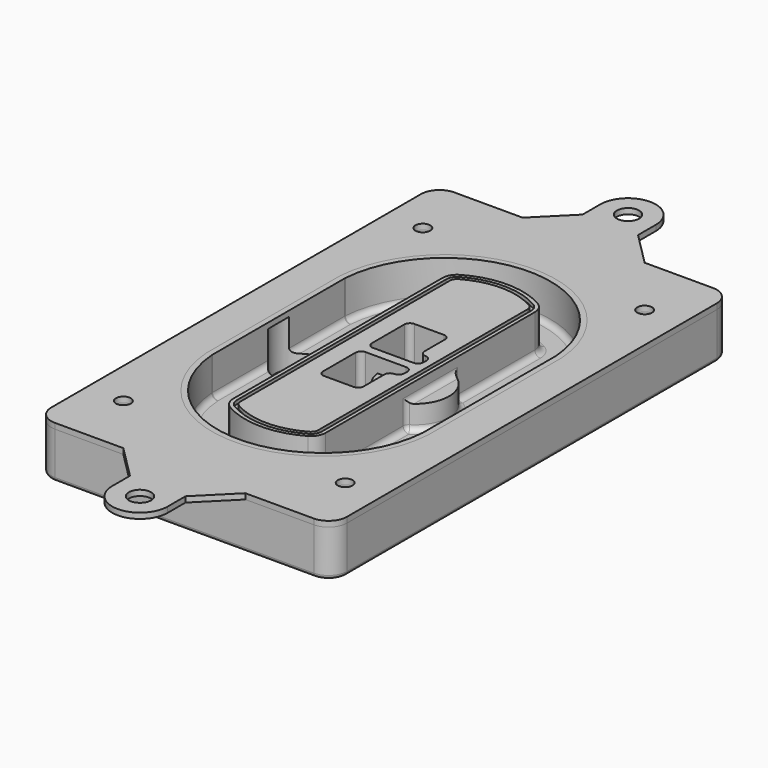
from build123d import *

# Parameters (mm, degrees)
F0_R      = 4
F1_DEPTH  = 25
F2_DEPTH  = 3
F3_DEPTH  = 18
F5_DEPTH  = 21
F6_DEPTH  = 2
F8_DEPTH  = 20
F9_DEPTH  = 16
F10_DEPTH = 25
F7_R      = 6
F7_R_2    = 4
F11_DEPTH = 6
F13_DEPTH = 9
F14_R     = 3
F15_R     = 2
F16_R     = 6
F16_R_2   = 4
F17_DEPTH = 3


with BuildPart() as f1:
    # F0 (on Top) → F1 (new body)
    with BuildSketch(Plane.XY):
        with BuildLine():
            ThreePointArc((-80, -125), (-77.0710678119, -132.0710678119), (-70, -135))
            Line((-70, -135), (70, -135))
            ThreePointArc((70, -135), (77.0710678119, -132.0710678119), (80, -125))
            Line((80, -125), (80, 125))
            ThreePointArc((80, 125), (77.0710678119, 132.0710678119), (70, 135))
            Line((70, 135), (-70, 135))
            ThreePointArc((-70, 135), (-77.0710678119, 132.0710678119), (-80, 125))
            Line((-80, 125), (-80, -125))
        make_face()
        with Locations((-60, -101.25)):
            Circle(F0_R, mode=Mode.SUBTRACT)
        with Locations((60, -101.25)):
            Circle(F0_R, mode=Mode.SUBTRACT)
        with Locations((-60, 101.25)):
            Circle(F0_R, mode=Mode.SUBTRACT)
        with BuildLine():
            ThreePointArc((-64, 44.6627429245), (-63.991269098, 45.1571001106), (-63.9650872818, 45.650840699))
            ThreePointArc((-63.9650872818, 45.650840699), (0, 105.25), (63.9650872818, 45.650840699))
            ThreePointArc((63.9650872818, 45.650840699), (63.991269098, 45.1571001106), (64, 44.6627429245))
            Line((64, 44.6627429245), (64, -44.6627429245))
            ThreePointArc((64, -44.6627429245), (63.991269098, -45.1571001106), (63.9650872818, -45.650840699))
            ThreePointArc((63.9650872818, -45.650840699), (0, -105.25), (-63.9650872818, -45.650840699))
            ThreePointArc((-63.9650872818, -45.650840699), (-63.991269098, -45.1571001106), (-64, -44.6627429245))
            Line((-64, -44.6627429245), (-64, 44.6627429245))
        make_face(mode=Mode.SUBTRACT)
        with Locations((60, 101.25)):
            Circle(F0_R, mode=Mode.SUBTRACT)
        with BuildLine():
            ThreePointArc((63.9650872818, 45.650840699), (0, 105.25), (-63.9650872818, 45.650840699))
            ThreePointArc((-63.9650872818, 45.650840699), (-63.991269098, 45.1571001106), (-64, 44.6627429245))
            Line((-64, 44.6627429245), (-64, -44.6627429245))
            ThreePointArc((-64, -44.6627429245), (-63.991269098, -45.1571001106), (-63.9650872818, -45.650840699))
            ThreePointArc((-63.9650872818, -45.650840699), (0, -105.25), (63.9650872818, -45.650840699))
            ThreePointArc((63.9650872818, -45.650840699), (63.991269098, -45.1571001106), (64, -44.6627429245))
            Line((64, -44.6627429245), (64, 44.6627429245))
            ThreePointArc((64, 44.6627429245), (63.991269098, 45.1571001106), (63.9650872818, 45.650840699))
        make_face()
        with BuildLine():
            Line((-60, -44.6627429245), (-60, 44.6627429245))
            ThreePointArc((-60, 44.6627429245), (-59.9937636414, 45.0158552003), (-59.9750623441, 45.3685270491))
            ThreePointArc((-59.9750623441, 45.3685270491), (0, 101.25), (59.9750623441, 45.3685270491))
            ThreePointArc((59.9750623441, 45.3685270491), (59.9937636414, 45.0158552003), (60, 44.6627429245))
            Line((60, 44.6627429245), (60, -44.6627429245))
            ThreePointArc((60, -44.6627429245), (59.9937636414, -45.0158552003), (59.9750623441, -45.3685270491))
            ThreePointArc((59.9750623441, -45.3685270491), (0, -101.25), (-59.9750623441, -45.3685270491))
            ThreePointArc((-59.9750623441, -45.3685270491), (-59.9937636414, -45.0158552003), (-60, -44.6627429245))
        make_face(mode=Mode.SUBTRACT)
        with BuildLine():
            ThreePointArc((-59.9750623441, 45.3685270491), (-59.9937636414, 45.0158552003), (-60, 44.6627429245))
            Line((-60, 44.6627429245), (-60, -44.6627429245))
            ThreePointArc((-60, -44.6627429245), (-59.9937636414, -45.0158552003), (-59.9750623441, -45.3685270491))
            ThreePointArc((-59.9750623441, -45.3685270491), (0, -101.25), (59.9750623441, -45.3685270491))
            ThreePointArc((59.9750623441, -45.3685270491), (59.9937636414, -45.0158552003), (60, -44.6627429245))
            Line((60, -44.6627429245), (60, 44.6627429245))
            ThreePointArc((60, 44.6627429245), (59.9937636414, 45.0158552003), (59.9750623441, 45.3685270491))
            ThreePointArc((59.9750623441, 45.3685270491), (0, 101.25), (-59.9750623441, 45.3685270491))
        make_face()
        with BuildLine():
            ThreePointArc((56.9825436409, 45.1567918117), (56.995634549, 44.9099215176), (57, 44.6627429245))
            Line((57, 44.6627429245), (57, -44.6627429245))
            ThreePointArc((57, -44.6627429245), (56.995634549, -44.9099215176), (56.9825436409, -45.1567918117))
            ThreePointArc((56.9825436409, -45.1567918117), (0, -98.25), (-56.9825436409, -45.1567918117))
            ThreePointArc((-56.9825436409, -45.1567918117), (-56.995634549, -44.9099215176), (-57, -44.6627429245))
            Line((-57, -44.6627429245), (-57, 44.6627429245))
            ThreePointArc((-57, 44.6627429245), (-56.995634549, 44.9099215176), (-56.9825436409, 45.1567918117))
            ThreePointArc((-56.9825436409, 45.1567918117), (0, 98.25), (56.9825436409, 45.1567918117))
        make_face(mode=Mode.SUBTRACT)
        with BuildLine():
            Line((57, -44.6627429245), (57, 44.6627429245))
            ThreePointArc((57, 44.6627429245), (56.995634549, 44.9099215176), (56.9825436409, 45.1567918117))
            ThreePointArc((56.9825436409, 45.1567918117), (0, 98.25), (-56.9825436409, 45.1567918117))
            ThreePointArc((-56.9825436409, 45.1567918117), (-56.995634549, 44.9099215176), (-57, 44.6627429245))
            Line((-57, 44.6627429245), (-57, -44.6627429245))
            ThreePointArc((-57, -44.6627429245), (-56.995634549, -44.9099215176), (-56.9825436409, -45.1567918117))
            ThreePointArc((-56.9825436409, -45.1567918117), (0, -98.25), (56.9825436409, -45.1567918117))
            ThreePointArc((56.9825436409, -45.1567918117), (56.995634549, -44.9099215176), (57, -44.6627429245))
        make_face()
    extrude(amount=-F1_DEPTH)

    # F0 (on Top) → F2 (join)
    with BuildSketch(Plane.XY):
        with BuildLine():
            ThreePointArc((-59.9750623441, 45.3685270491), (-59.9937636414, 45.0158552003), (-60, 44.6627429245))
            Line((-60, 44.6627429245), (-60, -44.6627429245))
            ThreePointArc((-60, -44.6627429245), (-59.9937636414, -45.0158552003), (-59.9750623441, -45.3685270491))
            ThreePointArc((-59.9750623441, -45.3685270491), (0, -101.25), (59.9750623441, -45.3685270491))
            ThreePointArc((59.9750623441, -45.3685270491), (59.9937636414, -45.0158552003), (60, -44.6627429245))
            Line((60, -44.6627429245), (60, 44.6627429245))
            ThreePointArc((60, 44.6627429245), (59.9937636414, 45.0158552003), (59.9750623441, 45.3685270491))
            ThreePointArc((59.9750623441, 45.3685270491), (0, 101.25), (-59.9750623441, 45.3685270491))
        make_face()
        with BuildLine():
            ThreePointArc((56.9825436409, 45.1567918117), (56.995634549, 44.9099215176), (57, 44.6627429245))
            Line((57, 44.6627429245), (57, -44.6627429245))
            ThreePointArc((57, -44.6627429245), (56.995634549, -44.9099215176), (56.9825436409, -45.1567918117))
            ThreePointArc((56.9825436409, -45.1567918117), (0, -98.25), (-56.9825436409, -45.1567918117))
            ThreePointArc((-56.9825436409, -45.1567918117), (-56.995634549, -44.9099215176), (-57, -44.6627429245))
            Line((-57, -44.6627429245), (-57, 44.6627429245))
            ThreePointArc((-57, 44.6627429245), (-56.995634549, 44.9099215176), (-56.9825436409, 45.1567918117))
            ThreePointArc((-56.9825436409, 45.1567918117), (0, 98.25), (56.9825436409, 45.1567918117))
        make_face(mode=Mode.SUBTRACT)
    extrude(amount=F2_DEPTH)

    # F0 (on Top) → F3 (cut)
    with BuildSketch(Plane.XY):
        with BuildLine():
            Line((57, -44.6627429245), (57, 44.6627429245))
            ThreePointArc((57, 44.6627429245), (56.995634549, 44.9099215176), (56.9825436409, 45.1567918117))
            ThreePointArc((56.9825436409, 45.1567918117), (0, 98.25), (-56.9825436409, 45.1567918117))
            ThreePointArc((-56.9825436409, 45.1567918117), (-56.995634549, 44.9099215176), (-57, 44.6627429245))
            Line((-57, 44.6627429245), (-57, -44.6627429245))
            ThreePointArc((-57, -44.6627429245), (-56.995634549, -44.9099215176), (-56.9825436409, -45.1567918117))
            ThreePointArc((-56.9825436409, -45.1567918117), (0, -98.25), (56.9825436409, -45.1567918117))
            ThreePointArc((56.9825436409, -45.1567918117), (56.995634549, -44.9099215176), (57, -44.6627429245))
        make_face()
    extrude(amount=-F3_DEPTH, mode=Mode.SUBTRACT)

    # F4 (on face) → F5 (join, through all)
    with BuildSketch(Plane.XY.offset(3)):
        with BuildLine():
            ThreePointArc((-25, -70.7141132851), (-23.9239722661, -74.7214325959), (-20.9853479853, -77.6507552274))
            ThreePointArc((-20.9853479853, -77.6507552274), (0, -83.25), (20.9853479853, -77.6507552274))
            ThreePointArc((20.9853479853, -77.6507552274), (23.9239722661, -74.7214325959), (25, -70.7141132851))
            Line((25, -70.7141132851), (25, 70.7141132851))
            ThreePointArc((25, 70.7141132851), (23.9239722661, 74.7214325959), (20.9853479853, 77.6507552274))
            ThreePointArc((20.9853479853, 77.6507552274), (0, 83.25), (-20.9853479853, 77.6507552274))
            ThreePointArc((-20.9853479853, 77.6507552274), (-23.9239722661, 74.7214325959), (-25, 70.7141132851))
            Line((-25, 70.7141132851), (-25, -70.7141132851))
        make_face()
        with BuildLine():
            ThreePointArc((19.989010989, 75.9165947419), (22.1929791996, 73.7196027682), (23, 70.7141132851))
            Line((23, 70.7141132851), (23, -70.7141132851))
            ThreePointArc((23, -70.7141132851), (22.1929791996, -73.7196027682), (19.989010989, -75.9165947419))
            ThreePointArc((19.989010989, -75.9165947419), (0, -81.25), (-19.989010989, -75.9165947419))
            ThreePointArc((-19.989010989, -75.9165947419), (-22.1929791996, -73.7196027682), (-23, -70.7141132851))
            Line((-23, -70.7141132851), (-23, 70.7141132851))
            ThreePointArc((-23, 70.7141132851), (-22.1929791996, 73.7196027682), (-19.989010989, 75.9165947419))
            ThreePointArc((-19.989010989, 75.9165947419), (0, 81.25), (19.989010989, 75.9165947419))
        make_face(mode=Mode.SUBTRACT)
        with BuildLine():
            Line((23, -70.7141132851), (23, 70.7141132851))
            ThreePointArc((23, 70.7141132851), (22.1929791996, 73.7196027682), (19.989010989, 75.9165947419))
            ThreePointArc((19.989010989, 75.9165947419), (0, 81.25), (-19.989010989, 75.9165947419))
            ThreePointArc((-19.989010989, 75.9165947419), (-22.1929791996, 73.7196027682), (-23, 70.7141132851))
            Line((-23, 70.7141132851), (-23, -70.7141132851))
            ThreePointArc((-23, -70.7141132851), (-22.1929791996, -73.7196027682), (-19.989010989, -75.9165947419))
            ThreePointArc((-19.989010989, -75.9165947419), (0, -81.25), (19.989010989, -75.9165947419))
            ThreePointArc((19.989010989, -75.9165947419), (22.1929791996, -73.7196027682), (23, -70.7141132851))
        make_face()
        with BuildLine():
            ThreePointArc((18.9926739927, 74.1824342563), (20.461986133, 72.7177729405), (21, 70.7141132851))
            Line((21, 70.7141132851), (21, -70.7141132851))
            ThreePointArc((21, -70.7141132851), (20.461986133, -72.7177729405), (18.9926739927, -74.1824342563))
            ThreePointArc((18.9926739927, -74.1824342563), (0, -79.25), (-18.9926739927, -74.1824342563))
            ThreePointArc((-18.9926739927, -74.1824342563), (-20.461986133, -72.7177729405), (-21, -70.7141132851))
            Line((-21, -70.7141132851), (-21, 70.7141132851))
            ThreePointArc((-21, 70.7141132851), (-20.461986133, 72.7177729405), (-18.9926739927, 74.1824342563))
            ThreePointArc((-18.9926739927, 74.1824342563), (0, 79.25), (18.9926739927, 74.1824342563))
        make_face(mode=Mode.SUBTRACT)
        with BuildLine():
            Line((21, -70.7141132851), (21, 70.7141132851))
            ThreePointArc((21, 70.7141132851), (20.461986133, 72.7177729405), (18.9926739927, 74.1824342563))
            ThreePointArc((18.9926739927, 74.1824342563), (0, 79.25), (-18.9926739927, 74.1824342563))
            ThreePointArc((-18.9926739927, 74.1824342563), (-20.461986133, 72.7177729405), (-21, 70.7141132851))
            Line((-21, 70.7141132851), (-21, -70.7141132851))
            ThreePointArc((-21, -70.7141132851), (-20.461986133, -72.7177729405), (-18.9926739927, -74.1824342563))
            ThreePointArc((-18.9926739927, -74.1824342563), (0, -79.25), (18.9926739927, -74.1824342563))
            ThreePointArc((18.9926739927, -74.1824342563), (20.461986133, -72.7177729405), (21, -70.7141132851))
        make_face()
        with BuildLine():
            Line((-8, -2.5), (14, -2.5))
            ThreePointArc((14, -2.5), (16.1213203436, -3.3786796564), (17, -5.5))
            Line((17, -5.5), (17, -7.5))
            ThreePointArc((17, -7.5), (16.1213203436, -9.6213203436), (14, -10.5))
            ThreePointArc((14, -10.5), (11.8786796564, -11.3786796564), (11, -13.5))
            Line((11, -13.5), (11, -27.5))
            ThreePointArc((11, -27.5), (10.1213203436, -29.6213203436), (8, -30.5))
            Line((8, -30.5), (-8, -30.5))
            ThreePointArc((-8, -30.5), (-10.1213203436, -29.6213203436), (-11, -27.5))
            Line((-11, -27.5), (-11, -5.5))
            ThreePointArc((-11, -5.5), (-10.1213203436, -3.3786796564), (-8, -2.5))
        make_face(mode=Mode.SUBTRACT)
        with BuildLine():
            ThreePointArc((-8, 2.5), (-10.1213203436, 3.3786796564), (-11, 5.5))
            Line((-11, 5.5), (-11, 27.5))
            ThreePointArc((-11, 27.5), (-10.1213203436, 29.6213203436), (-8, 30.5))
            Line((-8, 30.5), (8, 30.5))
            ThreePointArc((8, 30.5), (10.1213203436, 29.6213203436), (11, 27.5))
            Line((11, 27.5), (11, 13.5))
            ThreePointArc((11, 13.5), (11.8786796564, 11.3786796564), (14, 10.5))
            ThreePointArc((14, 10.5), (16.1213203436, 9.6213203436), (17, 7.5))
            Line((17, 7.5), (17, 5.5))
            ThreePointArc((17, 5.5), (16.1213203436, 3.3786796564), (14, 2.5))
            Line((14, 2.5), (-8, 2.5))
        make_face(mode=Mode.SUBTRACT)
    extrude(amount=-F5_DEPTH)

    # F4 (on face) → F6 (cut)
    with BuildSketch(Plane.XY.offset(3)):
        with BuildLine():
            Line((23, -70.7141132851), (23, 70.7141132851))
            ThreePointArc((23, 70.7141132851), (22.1929791996, 73.7196027682), (19.989010989, 75.9165947419))
            ThreePointArc((19.989010989, 75.9165947419), (0, 81.25), (-19.989010989, 75.9165947419))
            ThreePointArc((-19.989010989, 75.9165947419), (-22.1929791996, 73.7196027682), (-23, 70.7141132851))
            Line((-23, 70.7141132851), (-23, -70.7141132851))
            ThreePointArc((-23, -70.7141132851), (-22.1929791996, -73.7196027682), (-19.989010989, -75.9165947419))
            ThreePointArc((-19.989010989, -75.9165947419), (0, -81.25), (19.989010989, -75.9165947419))
            ThreePointArc((19.989010989, -75.9165947419), (22.1929791996, -73.7196027682), (23, -70.7141132851))
        make_face()
        with BuildLine():
            ThreePointArc((18.9926739927, 74.1824342563), (20.461986133, 72.7177729405), (21, 70.7141132851))
            Line((21, 70.7141132851), (21, -70.7141132851))
            ThreePointArc((21, -70.7141132851), (20.461986133, -72.7177729405), (18.9926739927, -74.1824342563))
            ThreePointArc((18.9926739927, -74.1824342563), (0, -79.25), (-18.9926739927, -74.1824342563))
            ThreePointArc((-18.9926739927, -74.1824342563), (-20.461986133, -72.7177729405), (-21, -70.7141132851))
            Line((-21, -70.7141132851), (-21, 70.7141132851))
            ThreePointArc((-21, 70.7141132851), (-20.461986133, 72.7177729405), (-18.9926739927, 74.1824342563))
            ThreePointArc((-18.9926739927, 74.1824342563), (0, 79.25), (18.9926739927, 74.1824342563))
        make_face(mode=Mode.SUBTRACT)
    extrude(amount=-F6_DEPTH, mode=Mode.SUBTRACT)

    # F7 (on face) → F8 (join)
    with BuildSketch(Plane(origin=(0, 0, -25), x_dir=(1, 0, 0), z_dir=(0, 0, -1))):
        with BuildLine():
            ThreePointArc((3.28842436, 0), (16.7567035675, 13.4682792075), (30.224982775, 0))
            Line((30.224982775, 0), (35.224982775, 0))
            ThreePointArc((35.224982775, 0), (16.7567035675, 18.4682792075), (-1.71157564, 0))
            Line((-1.71157564, 0), (3.28842436, 0))
        make_face()
        with BuildLine():
            Line((3.28842436, 0), (30.224982775, 0))
            ThreePointArc((30.224982775, 0), (16.7567035675, 13.4682792075), (3.28842436, 0))
        make_face()
        with BuildLine():
            ThreePointArc((3.28842436, 0), (16.7567035675, -13.4682792075), (30.224982775, 0))
            Line((30.224982775, 0), (3.28842436, 0))
        make_face()
        with BuildLine():
            Line((35.224982775, 0), (30.224982775, 0))
            ThreePointArc((30.224982775, 0), (16.7567035675, -13.4682792075), (3.28842436, 0))
            Line((3.28842436, 0), (-1.71157564, 0))
            ThreePointArc((-1.71157564, 0), (16.7567035675, -18.4682792075), (35.224982775, 0))
        make_face()
    extrude(amount=-F8_DEPTH)

    # F7 (on face) → F9 (cut)
    with BuildSketch(Plane(origin=(0, 0, -25), x_dir=(1, 0, 0), z_dir=(0, 0, -1))):
        with BuildLine():
            Line((3.28842436, 0), (30.224982775, 0))
            ThreePointArc((30.224982775, 0), (16.7567035675, 13.4682792075), (3.28842436, 0))
        make_face()
        with BuildLine():
            ThreePointArc((3.28842436, 0), (16.7567035675, -13.4682792075), (30.224982775, 0))
            Line((30.224982775, 0), (3.28842436, 0))
        make_face()
    extrude(amount=-F9_DEPTH, mode=Mode.SUBTRACT)

    # F7 (on face) → F10 (cut)
    with BuildSketch(Plane(origin=(0, 0, -25), x_dir=(1, 0, 0), z_dir=(0, 0, -1))):
        with BuildLine():
            Line((-59.0318229325, 0), (-32.0952645175, 0))
            ThreePointArc((-32.0952645175, 0), (-45.563543725, 13.4682792075), (-59.0318229325, 0))
        make_face()
        with BuildLine():
            ThreePointArc((-59.0318229325, 0), (-45.563543725, -13.4682792075), (-32.0952645175, 0))
            Line((-32.0952645175, 0), (-59.0318229325, 0))
        make_face()
    extrude(amount=-F10_DEPTH, mode=Mode.SUBTRACT)

    # F7 (on face) → F11 (cut)
    with BuildSketch(Plane(origin=(0, 0, -25), x_dir=(1, 0, 0), z_dir=(0, 0, -1))):
        with Locations((60, -101.25)):
            Circle(F7_R)
        with Locations((60, -101.25)):
            Circle(F7_R_2, mode=Mode.SUBTRACT)
        with Locations((60, -101.25)):
            Circle(F7_R)
        with Locations((60, -101.25)):
            Circle(F7_R_2, mode=Mode.SUBTRACT)
        with Locations((-60, -101.25)):
            Circle(F7_R)
        with Locations((-60, -101.25)):
            Circle(F7_R_2, mode=Mode.SUBTRACT)
        with Locations((-60, -101.25)):
            Circle(F7_R)
        with Locations((-60, -101.25)):
            Circle(F7_R_2, mode=Mode.SUBTRACT)
        with Locations((-60, 101.25)):
            Circle(F7_R)
        with Locations((-60, 101.25)):
            Circle(F7_R_2, mode=Mode.SUBTRACT)
        with Locations((-60, 101.25)):
            Circle(F7_R)
        with Locations((-60, 101.25)):
            Circle(F7_R_2, mode=Mode.SUBTRACT)
        with Locations((60, 101.25)):
            Circle(F7_R)
        with Locations((60, 101.25)):
            Circle(F7_R_2, mode=Mode.SUBTRACT)
        with Locations((60, 101.25)):
            Circle(F7_R)
        with Locations((60, 101.25)):
            Circle(F7_R_2, mode=Mode.SUBTRACT)
    extrude(amount=-F11_DEPTH, mode=Mode.SUBTRACT)

    # F12 (on face) → F13 (cut, through all)
    with BuildSketch(Plane(origin=(0, 0, -9), x_dir=(1, 0, 0), z_dir=(0, 0, -1))):
        with BuildLine():
            Line((11, 13.5), (11, 17.5481537753))
            ThreePointArc((11, 17.5481537753), (2.5696536419, 11.8239143813), (-1.5415842455, 2.5))
            Line((-1.5415842455, 2.5), (3.5224848595, 2.5))
            ThreePointArc((3.5224848595, 2.5), (6.1857188154, 8.3455872281), (11.2536447004, 12.2927168648))
            ThreePointArc((11.2536447004, 12.2927168648), (11.0640958889, 12.8831798879), (11, 13.5))
        make_face()
        with BuildLine():
            ThreePointArc((11.2536447004, -12.2927168648), (6.1857188154, -8.3455872281), (3.5224848595, -2.5))
            Line((3.5224848595, -2.5), (-1.5415842455, -2.5))
            ThreePointArc((-1.5415842455, -2.5), (2.5696536419, -11.8239143813), (11, -17.5481537753))
            Line((11, -17.5481537753), (11, -13.5))
            ThreePointArc((11, -13.5), (11.0640958889, -12.8831798879), (11.2536447004, -12.2927168648))
        make_face()
        with BuildLine():
            ThreePointArc((11.2536447004, 12.2927168648), (6.1857188154, 8.3455872281), (3.5224848595, 2.5))
            Line((3.5224848595, 2.5), (14, 2.5))
            ThreePointArc((14, 2.5), (16.1213203436, 3.3786796564), (17, 5.5))
            Line((17, 5.5), (17, 7.5))
            ThreePointArc((17, 7.5), (16.1213203436, 9.6213203436), (14, 10.5))
            ThreePointArc((14, 10.5), (12.3601599782, 10.9878446101), (11.2536447004, 12.2927168648))
        make_face()
        with BuildLine():
            Line((14, -2.5), (3.5224848595, -2.5))
            ThreePointArc((3.5224848595, -2.5), (6.1857188154, -8.3455872281), (11.2536447004, -12.2927168648))
            ThreePointArc((11.2536447004, -12.2927168648), (12.3601599782, -10.9878446101), (14, -10.5))
            ThreePointArc((14, -10.5), (16.1213203436, -9.6213203436), (17, -7.5))
            Line((17, -7.5), (17, -5.5))
            ThreePointArc((17, -5.5), (16.1213203436, -3.3786796564), (14, -2.5))
        make_face()
    extrude(amount=F13_DEPTH, mode=Mode.SUBTRACT)

    # F14
    f14_edges = [f1.edges().sort_by_distance(p)[0] for p in [
        (-57, -25.888126, -18),
        (-57, 25.888126, -18),
        (25, 0, -5),
        (25, 16.526506, -11.5),
        (25, -16.526506, -11.5),
        (25, -43.62031, -18),
        (35.224983, 0, -18),
    ]]
    fillet(f14_edges, radius=F14_R)

    # F15
    f15_edges = [f1.edges().sort_by_distance(p)[0] for p in [
        (0, -135, -25),
    ]]
    fillet(f15_edges, radius=F15_R)


with BuildPart() as f17:
    # F16 (on face) → F17 (new body, through all)
    with BuildSketch(Plane.XY):
        with BuildLine():
            Line((15, -153), (33, -135))
            Line((33, -135), (-33, -135))
            Line((-33, -135), (-15, -153))
            Line((-15, -153), (-15, -165))
            ThreePointArc((-15, -165), (0, -180), (15, -165))
            Line((15, -165), (15, -153))
        make_face()
        with Locations((0, -165)):
            Circle(F16_R, mode=Mode.SUBTRACT)
        with BuildLine():
            Line((15, 153), (15, 165))
            ThreePointArc((15, 165), (0, 180), (-15, 165))
            Line((-15, 165), (-15, 153))
            Line((-15, 153), (-33, 135))
            Line((-33, 135), (33, 135))
            Line((33, 135), (15, 153))
        make_face()
        with Locations((0, 165)):
            Circle(F16_R, mode=Mode.SUBTRACT)
        with BuildLine():
            Line((70, 135), (33, 135))
            Line((33, 135), (-33, 135))
            Line((-33, 135), (-70, 135))
            ThreePointArc((-70, 135), (-77.0710678119, 132.0710678119), (-80, 125))
            Line((-80, 125), (-80, -125))
            ThreePointArc((-80, -125), (-77.0710678119, -132.0710678119), (-70, -135))
            Line((-70, -135), (-33, -135))
            Line((-33, -135), (33, -135))
            Line((33, -135), (70, -135))
            ThreePointArc((70, -135), (77.0710678119, -132.0710678119), (80, -125))
            Line((80, -125), (80, 125))
            ThreePointArc((80, 125), (77.0710678119, 132.0710678119), (70, 135))
        make_face()
        with Locations((-60, -101.25)):
            Circle(F16_R_2, mode=Mode.SUBTRACT)
        with Locations((60, -101.25)):
            Circle(F16_R_2, mode=Mode.SUBTRACT)
        with Locations((-60, 101.25)):
            Circle(F16_R_2, mode=Mode.SUBTRACT)
        with BuildLine():
            ThreePointArc((-59.9750623441, 45.3685270491), (0, 101.25), (59.9750623441, 45.3685270491))
            ThreePointArc((59.9750623441, 45.3685270491), (59.9937636414, 45.0158552003), (60, 44.6627429245))
            Line((60, 44.6627429245), (60, -44.6627429245))
            ThreePointArc((60, -44.6627429245), (59.9937636414, -45.0158552003), (59.9750623441, -45.3685270491))
            ThreePointArc((59.9750623441, -45.3685270491), (0, -101.25), (-59.9750623441, -45.3685270491))
            ThreePointArc((-59.9750623441, -45.3685270491), (-59.9937636414, -45.0158552003), (-60, -44.6627429245))
            Line((-60, -44.6627429245), (-60, 44.6627429245))
            ThreePointArc((-60, 44.6627429245), (-59.9937636414, 45.0158552003), (-59.9750623441, 45.3685270491))
        make_face(mode=Mode.SUBTRACT)
        with Locations((60, 101.25)):
            Circle(F16_R_2, mode=Mode.SUBTRACT)
    extrude(amount=F17_DEPTH)


solid = Compound([f1.part, f17.part])
